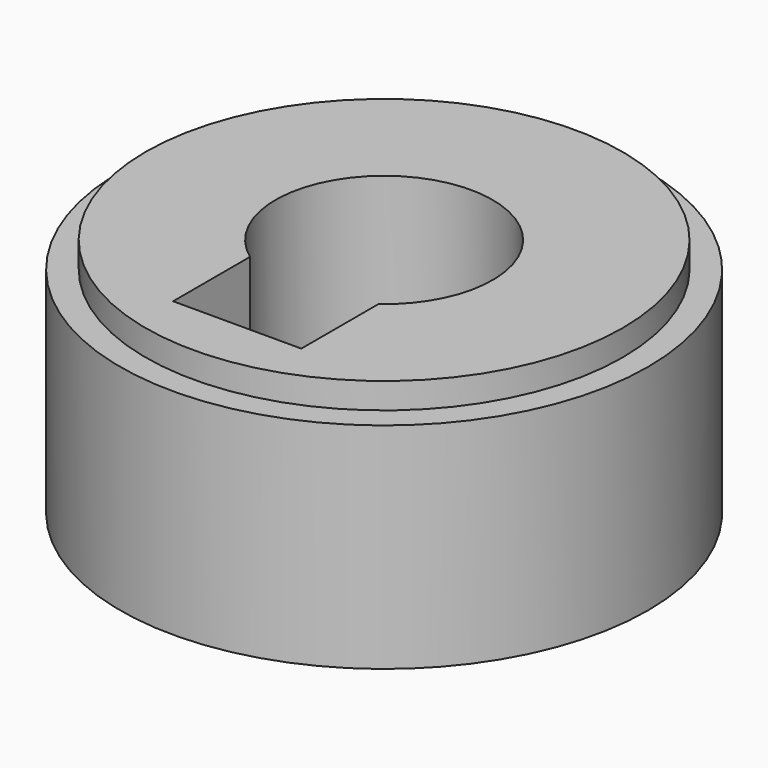
from build123d import *

# Parameters (mm, degrees)
F0_R     = 65.258808
F1_DEPTH = 53
F2_R     = 58.968994
F3_DEPTH = 6.4
F5_DEPTH = 73.5


with BuildPart() as f1:
    # F0 (on Top) → F1 (new body)
    with BuildSketch(Plane.XY):
        Circle(F0_R)
    extrude(amount=F1_DEPTH)

    # F2 (on face) → F3 (join)
    with BuildSketch(Plane.XY.offset(53)):
        Circle(F2_R)
    extrude(amount=F3_DEPTH)

    # F4 (on face) → F5 (cut)
    with BuildSketch(Plane.XY.offset(59.4)):
        with BuildLine():
            Line((15.88816, -21.688723), (15.809092, -21.688723))
            ThreePointArc((15.809092, -21.688723), (0, 26.838929), (-15.809092, -21.688723))
            Line((-15.809092, -21.688723), (-15.809092, -45.453947))
            Line((-15.809092, -45.453947), (15.88816, -45.453947))
            Line((15.88816, -45.453947), (15.88816, -21.688723))
        make_face()
    extrude(amount=-F5_DEPTH, mode=Mode.SUBTRACT)


solid = f1.part
